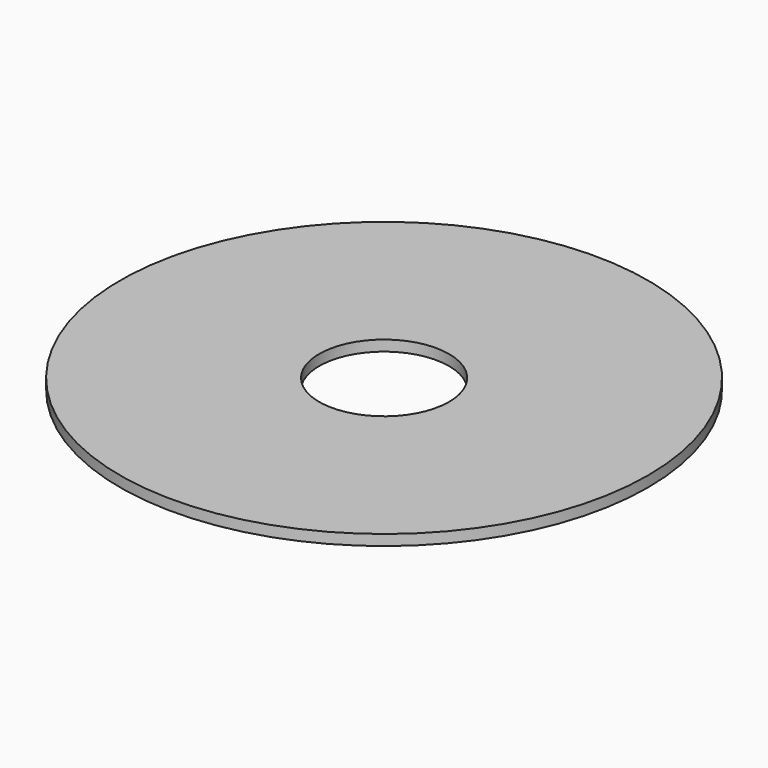
from build123d import *

# Parameters (mm, degrees)
CYLINDER003_R     = 0.61
CYLINDER003_DEPTH = 10
CYLINDER004_R     = 2.48
CYLINDER004_DEPTH = 0.1


with BuildPart() as cylinder003:
    # Cylinder003 → Cylinder003 (new body)
    with BuildSketch(Plane.XY):
        Circle(CYLINDER003_R)
    extrude(amount=CYLINDER003_DEPTH)


with BuildPart() as endcapfront:
    # Cylinder004 → Cylinder004 (new body)
    with BuildSketch(Plane.XY.offset(0.4)):
        Circle(CYLINDER004_R)
    extrude(amount=CYLINDER004_DEPTH)

    # Cut004: cut Cylinder003
    add(cylinder003.part, mode=Mode.SUBTRACT)


solid = endcapfront.part
